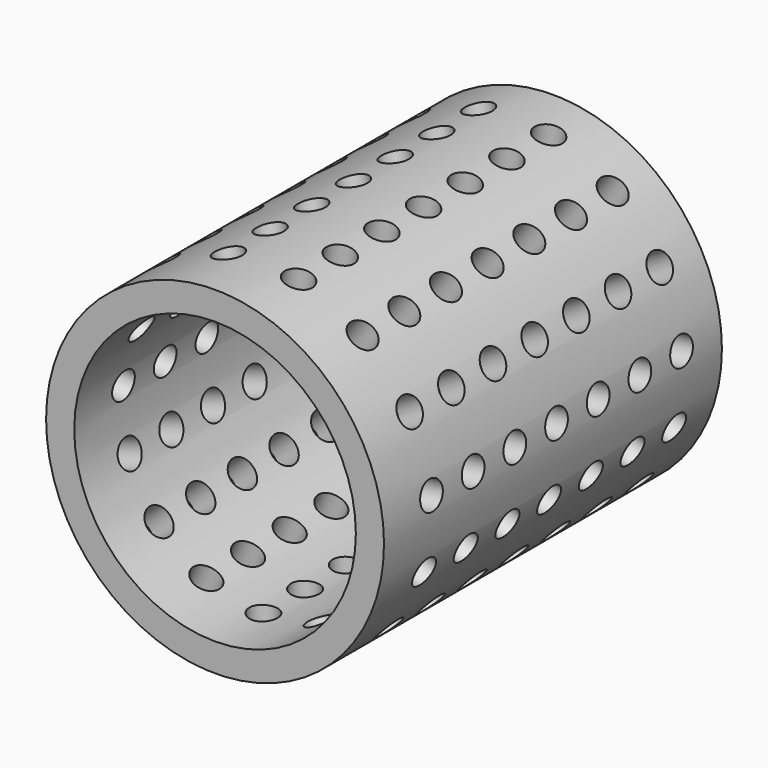
from build123d import *

# Parameters (mm, degrees)
F0_R     = 12
F1_DEPTH = 30
F2_T     = -2
F3_R     = 1
F4_DEPTH = 25
F5_COUNT = 15


with BuildPart() as f1:
    # F0 (on Front) → F1 (new body)
    with BuildSketch(Plane.XZ):
        Circle(F0_R)
    extrude(amount=F1_DEPTH)

    # F2
    f2_openings = [f1.faces().sort_by_distance(p)[0] for p in [
        (0, -30, 0),
    ]]
    offset(amount=F2_T, openings=f2_openings)

    # F3 (on Top) → F4 (cut)
    with BuildSketch(Plane.XY):
        with Locations((0, -3.5)):
            Circle(F3_R)
        with Locations((0, -7.2)):
            Circle(F3_R)
        with Locations((0, -10.9)):
            Circle(F3_R)
        with Locations((0, -14.6)):
            Circle(F3_R)
        with Locations((0, -18.3)):
            Circle(F3_R)
        with Locations((0, -22)):
            Circle(F3_R)
        with Locations((0, -25.7)):
            Circle(F3_R)
    f4 = extrude(amount=-F4_DEPTH, mode=Mode.SUBTRACT)

    # F5: F4 ×15 about axis
    f5_axis = Axis((0, 0, 0), (0, 1, 0))
    for i in range(1, F5_COUNT):
        add(f4.rotate(f5_axis, i * 360 / F5_COUNT), mode=Mode.SUBTRACT)


solid = f1.part
